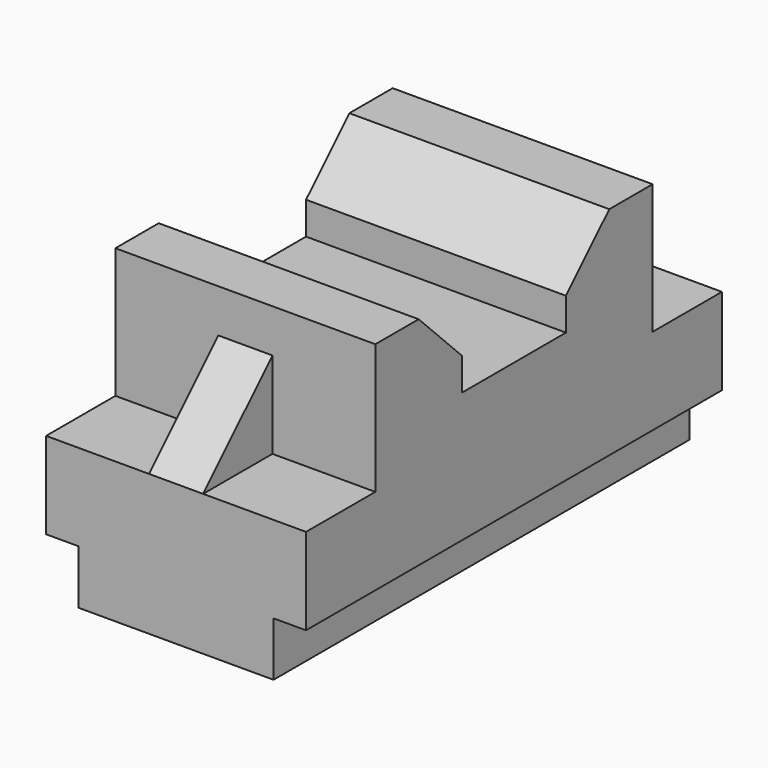
from build123d import *

# Parameters (mm, degrees)
F0_W      = 48
F0_H      = 50
F1_DEPTH  = 48
F2_W      = 6
F2_H      = 10
F3_DEPTH  = 96.001
F4_W      = 19
F4_H      = 24
F5_DEPTH  = 16
F7_DEPTH  = 29.001
F9_DEPTH  = 48.001
F10_W     = 19
F10_H     = 24
F11_DEPTH = 16
F13_DEPTH = 29.001


with BuildPart() as f1:
    # F0 (on Front) → F1 (new body, symmetric)
    with BuildSketch(Plane.XZ):
        Rectangle(F0_W, F0_H)
    extrude(amount=F1_DEPTH, both=True)

    # F2 (on face) → F3 (cut, through all)
    with BuildSketch(Plane.XZ.offset(48)):
        with Locations((-21, -20)):
            Rectangle(F2_W, F2_H)
        with Locations((21, -20)):
            Rectangle(F2_W, F2_H)
    extrude(amount=-F3_DEPTH, mode=Mode.SUBTRACT)

    # F4 (on face) → F5 (cut)
    with BuildSketch(Plane.XZ.offset(48)):
        with Locations((-14.5, 13)):
            Rectangle(F4_W, F4_H)
        with Locations((14.5, 13)):
            Rectangle(F4_W, F4_H)
    extrude(amount=-F5_DEPTH, mode=Mode.SUBTRACT)

    # F6 (on face) → F7 (cut, through all)
    with BuildSketch(Plane(origin=(-5, 0, 0), x_dir=(0, -1, 0), z_dir=(-1, 0, 0))):
        Polygon((32, 17), (48, 1), (48, 25), (32, 25), align=None)
    extrude(amount=-F7_DEPTH, mode=Mode.SUBTRACT)

    # F8 (on face) → F9 (cut, through all)
    with BuildSketch(Plane(origin=(-24, 0, 0), x_dir=(0, -1, 0), z_dir=(-1, 0, 0))):
        Polygon((12, 15), (22, 25), (-22, 25), (-12, 15), (-12, 9), (12, 9), align=None)
    extrude(amount=-F9_DEPTH, mode=Mode.SUBTRACT)

    # F10 (on face) → F11 (cut)
    with BuildSketch(Plane(origin=(0, 48, 0), x_dir=(-1, 0, 0), z_dir=(0, 1, 0))):
        with Locations((-14.5, 13)):
            Rectangle(F10_W, F10_H)
        with Locations((14.5, 13)):
            Rectangle(F10_W, F10_H)
    extrude(amount=-F11_DEPTH, mode=Mode.SUBTRACT)

    # F12 (on face) → F13 (cut, through all)
    with BuildSketch(Plane(origin=(-5, 0, 0), x_dir=(0, -1, 0), z_dir=(-1, 0, 0))):
        Polygon((-48, 1), (-32, 17), (-32, 25), (-48, 25), align=None)
    extrude(amount=-F13_DEPTH, mode=Mode.SUBTRACT)


solid = f1.part
